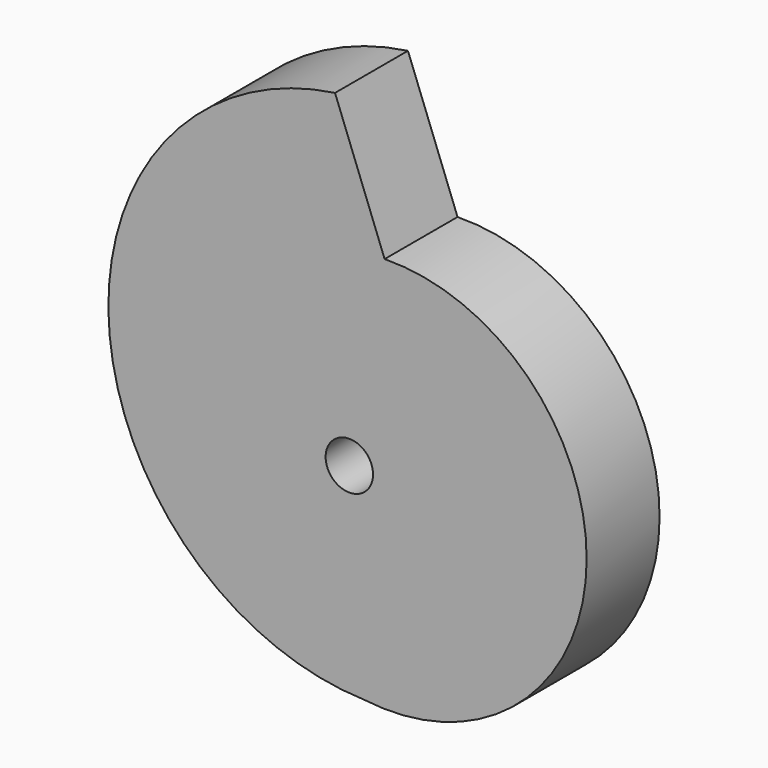
from build123d import *

# Parameters (mm, degrees)
F1_DEPTH = 12.7
F2_R     = 3.302
F3_DEPTH = 25.4


with BuildPart() as f1:
    # F0 (on Front) → F1 (new body)
    with BuildSketch(Plane.XZ):
        with BuildLine():
            Line((-34.536693, 28.780578), (-41.44403, 46.912339))
            ThreePointArc((-41.44403, 46.912339), (-72.960432, 8.512839), (-37.414748, -26.190324))
            ThreePointArc((-37.414748, -26.190324), (-6.428974, -0.251822), (-34.536693, 28.780578))
        make_face()
    extrude(amount=F1_DEPTH)

    # F2 (on face) → F3 (cut)
    with BuildSketch(Plane.XZ.offset(12.7)):
        with Locations((-39.451934, 1.843548)):
            Circle(F2_R)
    extrude(amount=-F3_DEPTH, mode=Mode.SUBTRACT)


solid = f1.part
